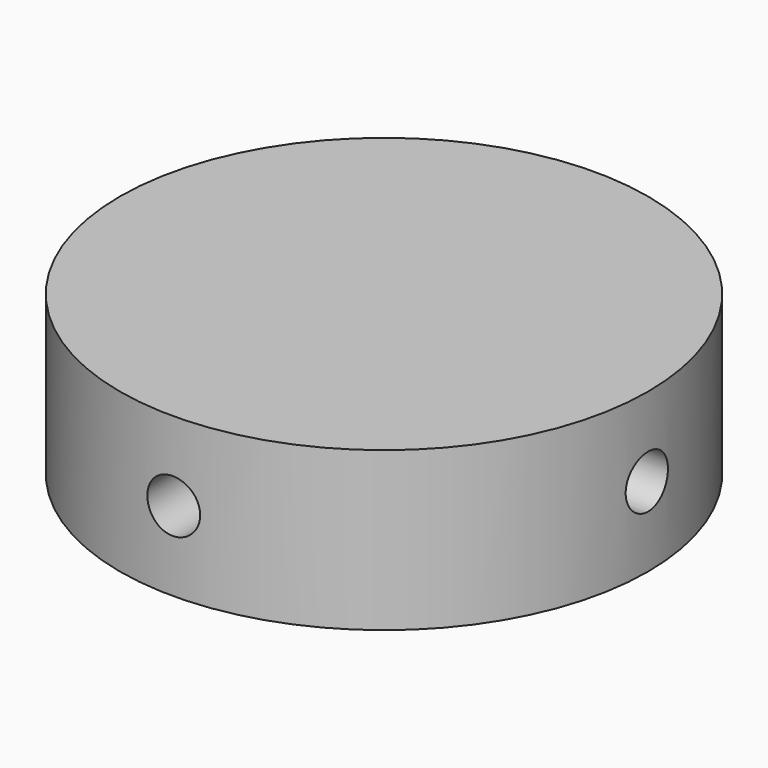
from build123d import *

# Parameters (mm, degrees)
F0_R     = 63.5
F1_DEPTH = 19.05
F2_R     = 6.35
F3_DEPTH = 381
F4_R     = 6.35
F5_DEPTH = 381


with BuildPart() as f1:
    # F0 (on Top) → F1 (new body, symmetric)
    with BuildSketch(Plane.XY):
        Circle(F0_R)
    extrude(amount=F1_DEPTH, both=True)

    # F2 (on Front) → F3 (cut, symmetric)
    with BuildSketch(Plane.XZ):
        Circle(F2_R)
    extrude(amount=F3_DEPTH, both=True, mode=Mode.SUBTRACT)

    # F4 (on Right) → F5 (cut, symmetric)
    with BuildSketch(Plane.YZ):
        Circle(F4_R)
    extrude(amount=F5_DEPTH, both=True, mode=Mode.SUBTRACT)


solid = f1.part
